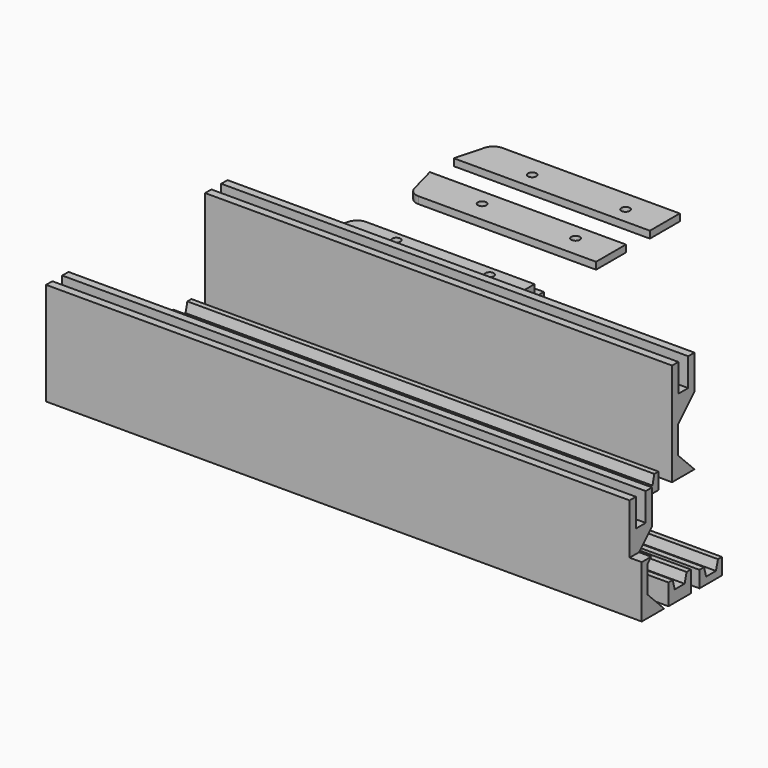
from build123d import *

# Parameters (mm, degrees)
F1_DEPTH  = 1.905
F3_DEPTH  = 3.1496
F4_W      = 1.905
F4_H      = 3.1496
F5_DEPTH  = 50.0414432116
F6_R      = 1.143
F7_DEPTH  = 5.0556
F8_W      = 127
F8_H      = 7.62
F9_DEPTH  = 27.94
F10_W     = 3.3528
F10_H     = 7.62
F11_DEPTH = 127
F12_W     = 127
F12_H     = 7.62
F13_DEPTH = 4.445
F15_DEPTH = 127
F16_W     = 127
F16_H     = 7.62
F17_DEPTH = 5.715
F19_DEPTH = 127
F21_DEPTH = 162.0012
F22_W     = 3.302
F22_H     = 13.716
F23_DEPTH = 7.62
F25_DEPTH = 162.052


with BuildPart() as f1:
    # F0 (on Top) → F1 (new body)
    with BuildSketch(Plane.XY):
        with BuildLine():
            ThreePointArc((2.1170345359, 2.2591195505), (3.2056716188, 0.6298590188), (5.0611764545, 0))
            Line((5.0611764545, 0), (53.34, 0))
            Line((53.34, 0), (53.34, 10.16))
            Line((53.34, 10.16), (0, 10.16))
            Line((0, 10.16), (2.1170345359, 2.2591195505))
        make_face()
    extrude(amount=F1_DEPTH)

    # F2 (on face) → F3 (join)
    with BuildSketch(Plane.XY.offset(1.905)):
        with BuildLine():
            Line((53.34, 3.175), (53.34, 10.16))
            Line((53.34, 10.16), (3.2995567884, 10.16))
            Line((3.2995567884, 10.16), (4.5658526384, 5.4341195505))
            ThreePointArc((4.5658526384, 5.4341195505), (5.6544897213, 3.8048590188), (7.5099945569, 3.175))
            Line((7.5099945569, 3.175), (53.34, 3.175))
        make_face()
    extrude(amount=F3_DEPTH)


with BuildPart() as f1b:
    # F0 (on Top) → F1, piece 2 (new body)
    with BuildSketch(Plane.XY):
        with BuildLine():
            Line((2.1170345359, 26.2016345311), (0, 18.3007540816))
            Line((0, 18.3007540816), (53.34, 18.3007540816))
            Line((53.34, 18.3007540816), (53.34, 28.4607540816))
            Line((53.34, 28.4607540816), (5.0611764545, 28.4607540816))
            ThreePointArc((5.0611764545, 28.4607540816), (3.2056716188, 27.8308950628), (2.1170345359, 26.2016345311))
        make_face()
    extrude(amount=F1_DEPTH)

    # F2 (on face) → F3, piece 2 (join)
    with BuildSketch(Plane.XY.offset(1.905)):
        with BuildLine():
            Line((3.2995567884, 18.3007540816), (53.34, 18.3007540816))
            Line((53.34, 18.3007540816), (53.34, 25.2857540816))
            Line((53.34, 25.2857540816), (7.5099945569, 25.2857540816))
            ThreePointArc((7.5099945569, 25.2857540816), (5.6544897213, 24.6558950628), (4.5658526384, 23.0266345311))
            Line((4.5658526384, 23.0266345311), (3.2995567884, 18.3007540816))
        make_face()
    extrude(amount=F3_DEPTH)


with BuildPart() as f1c:
    # F0 (on Top) → F1, piece 3 (new body)
    with BuildSketch(Plane.XY):
        with BuildLine():
            ThreePointArc((2.1170345359, 48.4632860374), (3.2056716188, 46.8340255057), (5.0611764545, 46.2041664869))
            Line((5.0611764545, 46.2041664869), (53.34, 46.2041664869))
            Line((53.34, 46.2041664869), (53.34, 56.3641664869))
            Line((53.34, 56.3641664869), (0, 56.3641664869))
            Line((0, 56.3641664869), (2.1170345359, 48.4632860374))
        make_face()
    extrude(amount=F1_DEPTH)


with BuildPart() as f1d:
    # F0 (on Top) → F1, piece 4 (new body)
    with BuildSketch(Plane.XY):
        with BuildLine():
            Line((2.1170345359, 72.4058010179), (0, 64.5049205685))
            Line((0, 64.5049205685), (53.34, 64.5049205685))
            Line((53.34, 64.5049205685), (53.34, 74.6649205685))
            Line((53.34, 74.6649205685), (5.0611764545, 74.6649205685))
            ThreePointArc((5.0611764545, 74.6649205685), (3.2056716188, 74.0350615497), (2.1170345359, 72.4058010179))
        make_face()
    extrude(amount=F1_DEPTH)


with BuildPart() as f5_tool:
    # F4 (on face) → F5 (new body, through all)
    with BuildSketch(Plane.YZ.offset(53.34)):
        with Locations((9.2075, 3.4798)):
            Rectangle(F4_W, F4_H)
        with Locations((19.2532540816, 3.4798)):
            Rectangle(F4_W, F4_H)
    extrude(amount=-F5_DEPTH)


with BuildPart() as f1_1:
    add(f1.part)

    # F5: cut by f5_tool
    add(f5_tool.part, mode=Mode.SUBTRACT)


with BuildPart() as f1b_1:
    add(f1b.part)

    # F5: cut by f5_tool
    add(f5_tool.part, mode=Mode.SUBTRACT)


with BuildPart() as f7_tool:
    # F6 (on face) → F7 (new body, through all)
    with BuildSketch(Plane.XY.offset(5.0546)):
        with Locations((17.78, 5.715)):
            Circle(F6_R)
        with Locations((43.18, 5.715)):
            Circle(F6_R)
        with Locations((17.78, 22.7457540816)):
            Circle(F6_R)
        with Locations((43.18, 22.7457540816)):
            Circle(F6_R)
        with Locations((17.78, 51.9191664869)):
            Circle(F6_R)
        with Locations((43.18, 51.9191664869)):
            Circle(F6_R)
        with Locations((43.18, 68.9499205685)):
            Circle(F6_R)
        with Locations((17.78, 68.9499205685)):
            Circle(F6_R)
    extrude(amount=-F7_DEPTH)


with BuildPart() as f1_2:
    add(f1_1.part)

    # F7: cut by f7_tool
    add(f7_tool.part, mode=Mode.SUBTRACT)


with BuildPart() as f1b_2:
    add(f1b_1.part)

    # F7: cut by f7_tool
    add(f7_tool.part, mode=Mode.SUBTRACT)


with BuildPart() as f1c_1:
    add(f1c.part)

    # F7: cut by f7_tool
    add(f7_tool.part, mode=Mode.SUBTRACT)


with BuildPart() as f1d_1:
    add(f1d.part)

    # F7: cut by f7_tool
    add(f7_tool.part, mode=Mode.SUBTRACT)


with BuildPart() as f9:
    # F8 (on Top) → F9 (new body)
    with BuildSketch(Plane.XY):
        with Locations((63.5, -16.2223329405)):
            Rectangle(F8_W, F8_H)
    extrude(amount=F9_DEPTH)

    # F10 (on face) → F11 (cut, through all)
    with BuildSketch(Plane.YZ.offset(127)):
        with Locations((-16.2223329405, 24.13)):
            Rectangle(F10_W, F10_H)
        Polygon((-12.4123329405, 0), (-12.4123329405, 18.6340653542), (-18.0003329405, 13.0460653542), (-18.0003329405, 5.588), align=None)
    extrude(amount=-F11_DEPTH, mode=Mode.SUBTRACT)


with BuildPart() as f13:
    # F12 (on Top) → F13 (new body)
    with BuildSketch(Plane.XY):
        with Locations((63.5, -28.4705040316)):
            Rectangle(F12_W, F12_H)
    extrude(amount=F13_DEPTH)

    # F14 (on face) → F15 (cut, through all)
    with BuildSketch(Plane.YZ.offset(127)):
        Polygon((-26.0575040316, 4.445), (-30.8835040316, 4.445), (-30.2485040316, 1.905), (-26.6925040316, 1.905), align=None)
    extrude(amount=-F15_DEPTH, mode=Mode.SUBTRACT)


with BuildPart() as f17:
    # F16 (on Top) → F17 (new body)
    with BuildSketch(Plane.XY):
        with Locations((63.5, -40.2722206438)):
            Rectangle(F16_W, F16_H)
    extrude(amount=F17_DEPTH)

    # F18 (on face) → F19 (cut, through all)
    with BuildSketch(Plane.YZ.offset(127)):
        Polygon((-37.8914739333, 5.715), (-42.6054558309, 5.715), (-41.9248648821, 3.175), (-38.5720648821, 3.175), align=None)
    extrude(amount=-F19_DEPTH, mode=Mode.SUBTRACT)


with BuildPart() as f21:
    # F20 (on Right) → F21 (new body)
    with BuildSketch(Plane.YZ):
        Polygon((-66.47579819, 18.6340653542), (-66.47579819, 27.94), (-68.60939819, 27.94), (-68.60939819, 20.32), (-71.96219819, 20.32), (-71.96219819, 27.94), (-74.09579819, 27.94), (-74.09579819, 0), (-66.47579819, 0), (-72.06379819, 5.588), (-72.06379819, 13.0460653542), align=None)
    extrude(amount=F21_DEPTH)

    # F22 (on face) → F23 (cut)
    with BuildSketch(Plane.XZ.offset(74.09579819)):
        with Locations((160.3502, 21.082)):
            Rectangle(F22_W, F22_H)
    extrude(amount=-F23_DEPTH, mode=Mode.SUBTRACT)


with BuildPart() as f25:
    # F24 (on Right) → F25 (new body)
    with BuildSketch(Plane.YZ):
        Polygon((-54.5178402128, 0), (-46.8978402128, 0), (-46.8978402128, 4.445), (-48.249249264, 4.445), (-48.9298402128, 1.905), (-52.2826402128, 1.905), (-52.9632311615, 4.445), (-54.5178402128, 4.445), align=None)
    extrude(amount=F25_DEPTH)


with BuildPart() as f25b:
    # F24 (on Right) → F25, piece 2 (new body)
    with BuildSketch(Plane.YZ):
        Polygon((-65.0763807163, 0), (-57.4563807163, 0), (-57.4563807163, 5.715), (-58.9093897676, 5.715), (-59.5899807163, 3.175), (-62.9427807163, 3.175), (-63.6233716651, 5.715), (-65.0763807163, 5.715), align=None)
    extrude(amount=F25_DEPTH)


solid = Compound([f1_2.part, f1b_2.part, f1c_1.part, f1d_1.part, f9.part, f13.part, f17.part, f21.part, f25.part, f25b.part])
